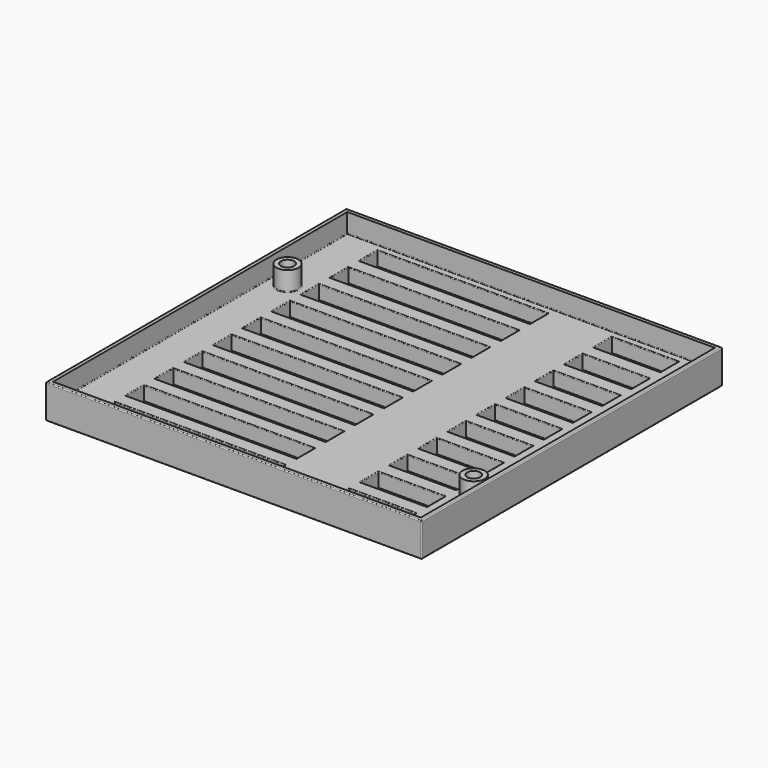
from build123d import *

# Parameters (mm, degrees)
SKETCH_W            = 100
SKETCH_H            = 100
PAD_DEPTH           = 9
SKETCH001_R         = 5.5
POCKET_DEPTH        = 3.1
SKETCH002_W         = 97.8
SKETCH002_H         = 97.8
POCKET001_DEPTH     = 5.1
SKETCH003_R         = 1.75
POCKET002_DEPTH     = 3.901
SKETCH004_R         = 2.95
SKETCH004_R_2       = 1.75
PAD001_DEPTH        = 5.1
SKETCH005_W         = 45.325
SKETCH005_H         = 6
SKETCH005_W_2       = 17.7
POCKET003_DEPTH     = 9.001
LINEARPATTERN_COUNT = 10
LINEARPATTERN_PITCH = 9.7
FILLET_R            = 0.2
FILLET001_R         = 0.25


with BuildPart() as part:
    # Sketch → Pad (new body)
    with BuildSketch(Plane.XY):
        with Locations((50, 50)):
            Rectangle(SKETCH_W, SKETCH_H)
    extrude(amount=PAD_DEPTH)

    # Sketch001 (on Face5 of Pad) → Pocket (cut)
    with BuildSketch(Plane(origin=(0, 0, 0), x_dir=(1, 0, 0), z_dir=(0, 0, -1))):
        with Locations((64.5, -15)):
            Circle(SKETCH001_R)
        with Locations((64.5, -85)):
            Circle(SKETCH001_R)
    extrude(amount=-POCKET_DEPTH, mode=Mode.SUBTRACT)

    # Sketch002 (on Face5 of Pocket) → Pocket001 (cut)
    with BuildSketch(Plane.XY.offset(9)):
        with Locations((50, 50)):
            Rectangle(SKETCH002_W, SKETCH002_H)
    extrude(amount=-POCKET001_DEPTH, mode=Mode.SUBTRACT)

    # Sketch003 (on Face15 of Pocket001) → Pocket002 (cut, through all)
    with BuildSketch(Plane.XY.offset(3.9)):
        with Locations((95.45, 23)):
            Circle(SKETCH003_R)
        with Locations((5.925, 73.025)):
            Circle(SKETCH003_R)
    extrude(amount=-POCKET002_DEPTH, mode=Mode.SUBTRACT)

    # Sketch004 (on Face16 of Pocket002) → Pad001 (join)
    with BuildSketch(Plane.XY.offset(3.9)):
        with Locations((5.925, 73.025)):
            Circle(SKETCH004_R)
        with Locations((5.925, 73.025)):
            Circle(SKETCH004_R_2, mode=Mode.SUBTRACT)
        with Locations((95.45, 23)):
            Circle(SKETCH004_R)
        with Locations((95.45, 23)):
            Circle(SKETCH004_R_2, mode=Mode.SUBTRACT)
    extrude(amount=PAD001_DEPTH)

    # Sketch005 (on Face4 of Pad001) → Pocket003 (cut, through all)
    with BuildSketch(Plane(origin=(0, 0, 0), x_dir=(1, 0, 0), z_dir=(0, 0, -1))):
        with Locations((33.3375, -94)):
            Rectangle(SKETCH005_W, SKETCH005_H)
        with Locations((81.85, -94)):
            Rectangle(SKETCH005_W_2, SKETCH005_H)
    pocket003 = extrude(amount=-POCKET003_DEPTH, mode=Mode.SUBTRACT)

    # LinearPattern: Pocket003 ×10
    with Locations(*[(0, -i * LINEARPATTERN_PITCH, 0) for i in range(1, LINEARPATTERN_COUNT)]):
        add(pocket003, mode=Mode.SUBTRACT)

    # Fillet
    fillet_edges = [part.edges().sort_by_distance(p)[0] for p in [
        (1.1, 50, 3.9),
        (50, 98.9, 3.9),
        (50, 1.1, 3.9),
        (98.9, 50, 3.9),
        (10.675, 6.7, 3.9),
        (33.3375, 3.7, 3.9),
        (56, 6.7, 3.9),
        (33.3375, 9.7, 3.9),
        (10.675, 16.4, 3.9),
        (33.3375, 13.4, 3.9),
        (56, 16.4, 3.9),
        (33.3375, 19.4, 3.9),
        (10.675, 26.1, 3.9),
        (33.3375, 23.1, 3.9),
        (56, 26.1, 3.9),
        (33.3375, 29.1, 3.9),
        (10.675, 35.8, 3.9),
        (33.3375, 32.8, 3.9),
        (56, 35.8, 3.9),
        (33.3375, 38.8, 3.9),
        (10.675, 45.5, 3.9),
        (33.3375, 42.5, 3.9),
        (56, 45.5, 3.9),
        (33.3375, 48.5, 3.9),
        (73, 6.7, 3.9),
        (81.85, 3.7, 3.9),
        (90.7, 6.7, 3.9),
        (81.85, 9.7, 3.9),
        (73, 16.4, 3.9),
        (81.85, 13.4, 3.9),
        (90.7, 16.4, 3.9),
        (81.85, 19.4, 3.9),
        (73, 26.1, 3.9),
        (81.85, 23.1, 3.9),
        (90.7, 26.1, 3.9),
        (81.85, 29.1, 3.9),
        (92.5, 23, 3.9),
        (73, 35.8, 3.9),
        (81.85, 32.8, 3.9),
        (90.7, 35.8, 3.9),
        (81.85, 38.8, 3.9),
        (73, 45.5, 3.9),
        (81.85, 42.5, 3.9),
        (90.7, 45.5, 3.9),
        (81.85, 48.5, 3.9),
        (2.975, 73.025, 3.9),
        (10.675, 55.2, 3.9),
        (33.3375, 52.2, 3.9),
        (56, 55.2, 3.9),
        (33.3375, 58.2, 3.9),
        (10.675, 64.9, 3.9),
        (33.3375, 61.9, 3.9),
        (56, 64.9, 3.9),
        (33.3375, 67.9, 3.9),
        (10.675, 74.6, 3.9),
        (33.3375, 71.6, 3.9),
        (56, 74.6, 3.9),
        (33.3375, 77.6, 3.9),
        (10.675, 84.3, 3.9),
        (33.3375, 81.3, 3.9),
        (56, 84.3, 3.9),
        (33.3375, 87.3, 3.9),
        (10.675, 94, 3.9),
        (33.3375, 97, 3.9),
        (33.3375, 91, 3.9),
        (56, 94, 3.9),
        (73, 55.2, 3.9),
        (81.85, 52.2, 3.9),
        (90.7, 55.2, 3.9),
        (81.85, 58.2, 3.9),
        (73, 64.9, 3.9),
        (81.85, 61.9, 3.9),
        (90.7, 64.9, 3.9),
        (81.85, 67.9, 3.9),
        (73, 74.6, 3.9),
        (81.85, 71.6, 3.9),
        (90.7, 74.6, 3.9),
        (81.85, 77.6, 3.9),
        (73, 84.3, 3.9),
        (81.85, 81.3, 3.9),
        (90.7, 84.3, 3.9),
        (81.85, 87.3, 3.9),
        (73, 94, 3.9),
        (81.85, 97, 3.9),
        (81.85, 91, 3.9),
        (90.7, 94, 3.9),
    ]]
    fillet(fillet_edges, radius=FILLET_R)

    # Fillet001
    fillet001_edges = [part.edges().sort_by_distance(p)[0] for p in [
        (50, 0, 0),
        (0, 50, 0),
        (100, 50, 0),
        (50, 100, 0),
        (33.3375, 3.7, 0),
        (56, 6.7, 0),
        (33.3375, 9.7, 0),
        (10.675, 6.7, 0),
        (33.3375, 13.4, 0),
        (56, 16.4, 0),
        (33.3375, 19.4, 0),
        (10.675, 16.4, 0),
        (33.3375, 23.1, 0),
        (56, 26.1, 0),
        (33.3375, 29.1, 0),
        (10.675, 26.1, 0),
        (33.3375, 32.8, 0),
        (56, 35.8, 0),
        (33.3375, 38.8, 0),
        (10.675, 35.8, 0),
        (33.3375, 42.5, 0),
        (56, 45.5, 0),
        (33.3375, 48.5, 0),
        (10.675, 45.5, 0),
        (59, 15, 0),
        (81.85, 3.7, 0),
        (90.7, 6.7, 0),
        (81.85, 9.7, 0),
        (73, 6.7, 0),
        (81.85, 13.4, 0),
        (90.7, 16.4, 0),
        (81.85, 19.4, 0),
        (73, 16.4, 0),
        (81.85, 23.1, 0),
        (90.7, 26.1, 0),
        (81.85, 29.1, 0),
        (73, 26.1, 0),
        (93.7, 23, 0),
        (81.85, 32.8, 0),
        (90.7, 35.8, 0),
        (81.85, 38.8, 0),
        (73, 35.8, 0),
        (81.85, 42.5, 0),
        (90.7, 45.5, 0),
        (81.85, 48.5, 0),
        (73, 45.5, 0),
        (4.175, 73.025, 0),
        (33.3375, 52.2, 0),
        (56, 55.2, 0),
        (33.3375, 58.2, 0),
        (10.675, 55.2, 0),
        (33.3375, 61.9, 0),
        (56, 64.9, 0),
        (33.3375, 67.9, 0),
        (10.675, 64.9, 0),
        (33.3375, 71.6, 0),
        (56, 74.6, 0),
        (33.3375, 77.6, 0),
        (10.675, 74.6, 0),
        (33.3375, 81.3, 0),
        (56, 84.3, 0),
        (33.3375, 87.3, 0),
        (10.675, 84.3, 0),
        (33.3375, 91, 0),
        (56, 94, 0),
        (10.675, 94, 0),
        (33.3375, 97, 0),
        (81.85, 52.2, 0),
        (90.7, 55.2, 0),
        (81.85, 58.2, 0),
        (73, 55.2, 0),
        (81.85, 61.9, 0),
        (90.7, 64.9, 0),
        (81.85, 67.9, 0),
        (73, 64.9, 0),
        (59, 85, 0),
        (81.85, 71.6, 0),
        (90.7, 74.6, 0),
        (81.85, 77.6, 0),
        (73, 74.6, 0),
        (81.85, 81.3, 0),
        (90.7, 84.3, 0),
        (81.85, 87.3, 0),
        (73, 84.3, 0),
        (81.85, 91, 0),
        (90.7, 94, 0),
        (73, 94, 0),
        (81.85, 97, 0),
        (0, 0, 4.5),
        (100, 0, 4.5),
        (50, 0, 9),
        (100, 100, 4.5),
        (100, 50, 9),
        (0, 100, 4.5),
        (0, 50, 9),
        (50, 100, 9),
    ]]
    fillet(fillet001_edges, radius=FILLET001_R)


solid = part.part
